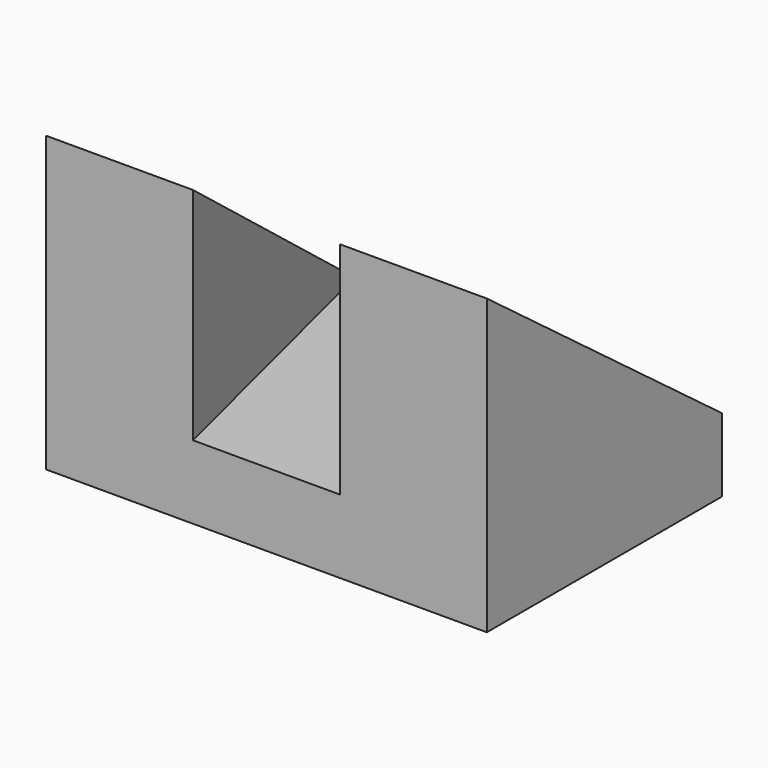
from build123d import *

# Parameters (mm, degrees)
F0_W     = 60
F0_H     = 40
F1_DEPTH = 10
F3_DEPTH = 20
F5_DEPTH = 20
F7_DEPTH = 30
F9_DEPTH = 30


with BuildPart() as f1:
    # F0 (on Top) → F1 (new body)
    with BuildSketch(Plane.XY):
        with Locations((30, 20)):
            Rectangle(F0_W, F0_H)
    extrude(amount=F1_DEPTH)

    # F2 (on face) → F3 (join)
    with BuildSketch(Plane(origin=(0, 0, 0), x_dir=(0, -1, 0), z_dir=(-1, 0, 0))):
        Polygon((-40, 10), (0, 10), (0, 40), align=None)
    extrude(amount=-F3_DEPTH)

    # F4 (on face) → F5 (join)
    with BuildSketch(Plane.YZ.offset(60)):
        Polygon((0, 40), (0, 10), (40, 10), align=None)
    extrude(amount=-F5_DEPTH)

    # F6 (on face) → F7 (cut)
    with BuildSketch(Plane.XY.offset(10)):
        Polygon((10, 40), (20, 0), (20, 40), align=None)
    extrude(amount=F7_DEPTH, mode=Mode.SUBTRACT)

    # F8 (on face) → F9 (cut)
    with BuildSketch(Plane.XY.offset(10)):
        Polygon((40, 40), (40, 0), (50, 40), align=None)
    extrude(amount=F9_DEPTH, mode=Mode.SUBTRACT)


solid = f1.part
